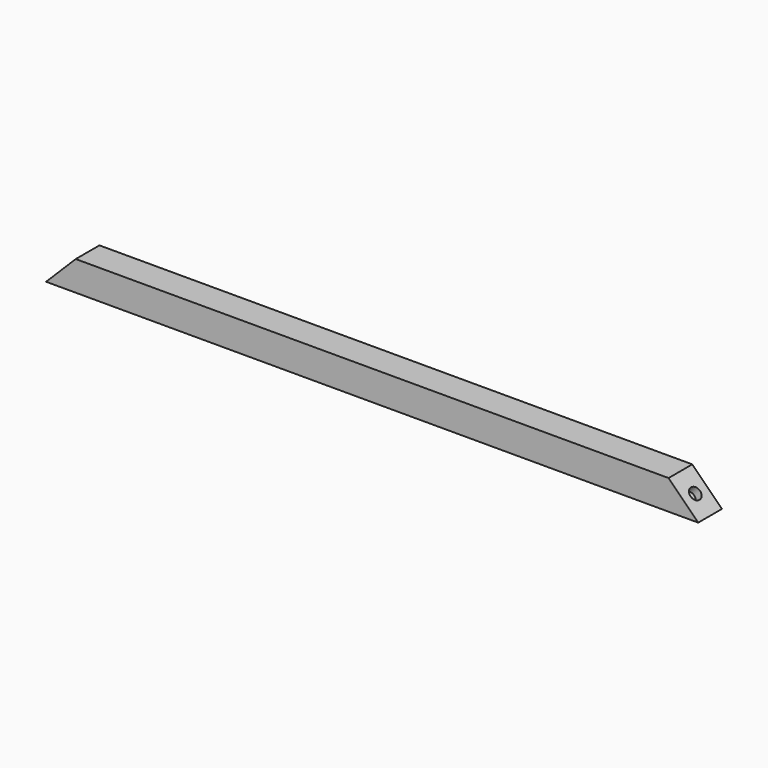
from build123d import *

# Parameters (mm, degrees)
F1_DEPTH = 3.175
F2_R     = 0.635
F3_DEPTH = 0.7874
F4_R     = 0.635
F5_DEPTH = 0.889


with BuildPart() as f1:
    # F0 (on Front) → F1 (new body)
    with BuildSketch(Plane.XZ):
        Polygon((-36.3817475656, -16.1080135742), (-39.5567475656, -19.2830135742), (27.1182524344, -19.2830135742), (27.1182524344, -16.1080135742), align=None)
        Polygon((27.1182524344, -16.1080135742), (27.1182524344, -19.2830135742), (30.293257907, -19.2830190468), align=None)
    extrude(amount=F1_DEPTH)

    # F2 (on face) → F3 (cut)
    with BuildSketch(Plane(origin=(-10.1368669957, 0, 10.1368669957), x_dir=(0, -1, 0), z_dir=(-0.7071067812, 0, 0.7071067812))):
        with Locations((1.5875, -39.3510660448)):
            Circle(F2_R)
    extrude(amount=-F3_DEPTH, mode=Mode.SUBTRACT)

    # F4 (on face) → F5 (cut)
    with BuildSketch(Plane(origin=(5.5051194301, 0, 5.5051194301), x_dir=(0.7071067812, 0, -0.7071067812), z_dir=(0.7071067812, 0, 0.7071067812))):
        with Locations((32.8205216201, -1.5875)):
            Circle(F4_R)
    extrude(amount=-F5_DEPTH, mode=Mode.SUBTRACT)


solid = f1.part
